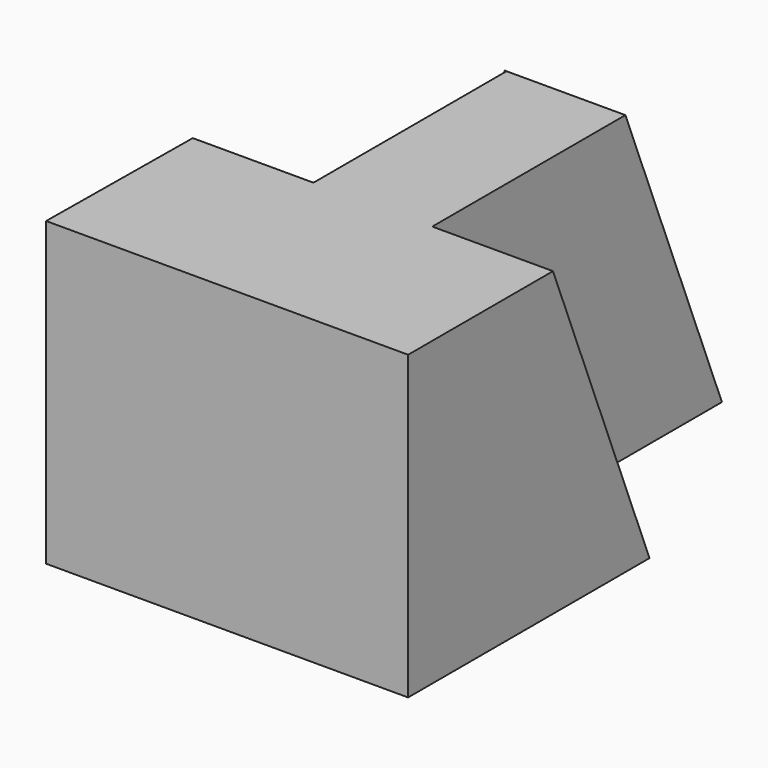
from build123d import *

# Parameters (mm, degrees)
F1_DEPTH = 31.75
F3_DEPTH = 12.7
F5_DEPTH = 12.7
F7_DEPTH = 12.7


with BuildPart() as f1:
    # F0 (on Top) → F1 (new body)
    with BuildSketch(Plane.XY):
        Polygon((-53.184141, -37.298974), (-53.380532, -56.348974), (-15.280532, -56.348974), (-15.280532, -37.298974), (-27.980532, -37.298974), (-27.980532, -11.898974), (-40.484141, -11.898974), (-40.484141, -37.298974), align=None)
    extrude(amount=F1_DEPTH)

    # F2 (on face) → F3 (join)
    with BuildSketch(Plane.YZ.offset(-27.980532)):
        Polygon((-24.598974, 0), (-37.298974, 31.75), (-37.298974, 0), align=None)
    extrude(amount=F3_DEPTH)

    # F4 (on face) → F5 (join)
    with BuildSketch(Plane(origin=(-40.484141, 0, 0), x_dir=(0, -1, 0), z_dir=(-1, 0, 0))):
        Polygon((37.298974, 0), (37.298974, 31.75), (24.598974, 0), align=None)
    extrude(amount=F5_DEPTH)

    # F6 (on face) → F7 (join)
    with BuildSketch(Plane.YZ.offset(-27.980532)):
        Polygon((0.801026, 0), (-11.898974, 31.75), (-11.898974, 0), align=None)
    extrude(amount=-F7_DEPTH)


solid = f1.part
